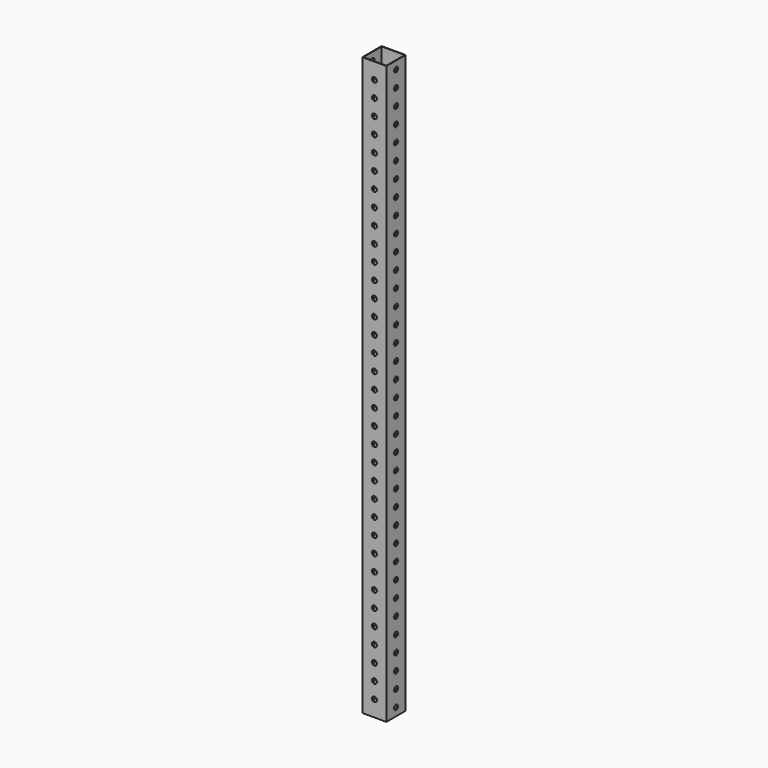
from build123d import *

# Parameters (mm, degrees)
F0_W       = 76.2
F0_H       = 76.2
F0_W_2     = 73.152
F0_H_2     = 73.152
F1_DEPTH   = 1828.8
F6_D       = 15.875
F6_ON_F3_D = 15.875


with BuildPart() as f1:
    # F0 (on Top) → F1 (new body)
    with BuildSketch(Plane.XY):
        Rectangle(F0_W, F0_H)
        Rectangle(F0_W_2, F0_H_2, mode=Mode.SUBTRACT)
    extrude(amount=F1_DEPTH)

    # F6 (through all)
    with Locations(Plane.YZ.offset(76.2)):
        with Locations((0, 25.4), (0, 76.2), (0, 127), (0, 177.8), (0, 228.6), (0, 279.4), (0, 330.2), (0, 381), (0, 431.8), (0, 482.6), (0, 533.4), (0, 584.2), (0, 635), (0, 685.8), (0, 736.6), (0, 787.4), (0, 838.2), (0, 889), (0, 939.8), (0, 990.6), (0, 1041.4), (0, 1092.2), (0, 1143), (0, 1193.8), (0, 1244.6), (0, 1295.4), (0, 1346.2), (0, 1397), (0, 1447.8), (0, 1498.6), (0, 1549.4), (0, 1600.2), (0, 1651), (0, 1701.8), (0, 1752.6), (0, 1803.4)):
            Hole(F6_D / 2)

    # F6 on F3 (through all)
    with Locations(Plane.XZ.offset(76.2)):
        with Locations((0, 863.6), (0, 812.8), (0, 762), (0, 711.2), (0, 660.4), (0, 609.6), (0, 558.8), (0, 508), (0, 457.2), (0, 406.4), (0, 355.6), (0, 304.8), (0, 254), (0, 203.2), (0, 152.4), (0, 101.6), (0, 50.8), (0, 914.4), (0, 965.2), (0, 1778), (0, 1727.2), (0, 1676.4), (0, 1625.6), (0, 1574.8), (0, 1524), (0, 1473.2), (0, 1422.4), (0, 1371.6), (0, 1320.8), (0, 1270), (0, 1219.2), (0, 1168.4), (0, 1117.6), (0, 1066.8), (0, 1016)):
            Hole(F6_ON_F3_D / 2)


solid = f1.part
